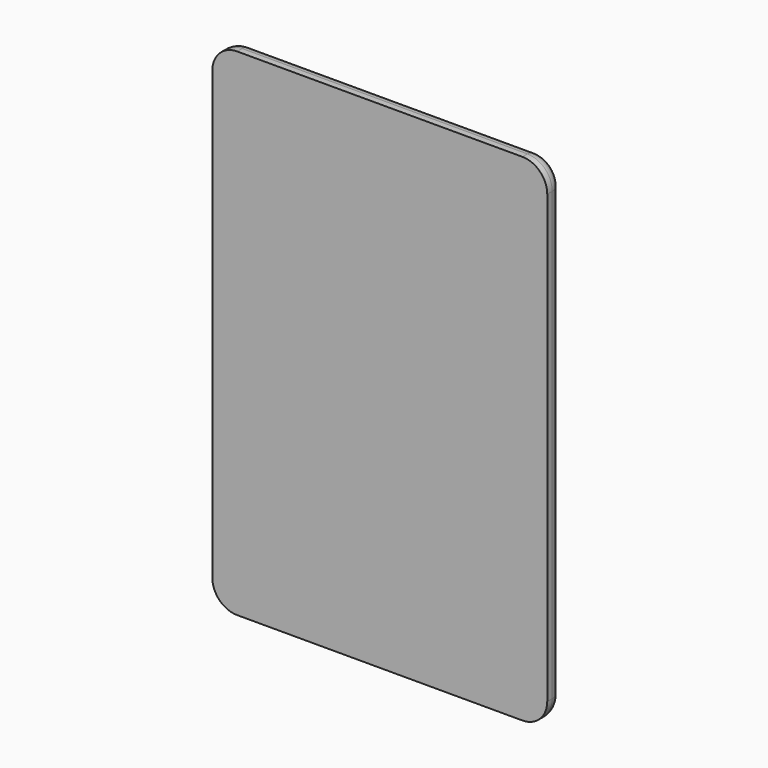
from build123d import *

# Parameters (mm, degrees)
F0_W     = 135
F0_H     = 200
F1_DEPTH = 7.5
F2_R     = 10
F3_R     = 5
F4_W     = 8
F4_H     = 2
F5_DEPTH = 5


with BuildPart() as f1:
    # F0 (on Front) → F1 (new body)
    with BuildSketch(Plane.XZ):
        with Locations((67.5, 100)):
            Rectangle(F0_W, F0_H)
    extrude(amount=F1_DEPTH)

    # F2
    f2_edges = [f1.edges().sort_by_distance(p)[0] for p in [
        (0, -3.75, 200),
        (135, -3.75, 200),
        (0, -3.75, 0),
        (135, -3.75, 0),
    ]]
    fillet(f2_edges, radius=F2_R)

    # F3
    f3_edges = [f1.edges().sort_by_distance(p)[0] for p in [
        (0, 0, 100),
        (67.5, 0, 200),
        (2.928932, 0, 197.071068),
    ]]
    fillet(f3_edges, radius=F3_R)

    # F4 (on face) → F5 (cut)
    with BuildSketch(Plane(origin=(0, 0, 0), x_dir=(1, 0, 0), z_dir=(0, 0, -1))):
        with Locations((67.5, 4)):
            Rectangle(F4_W, F4_H)
    extrude(amount=-F5_DEPTH, mode=Mode.SUBTRACT)


solid = f1.part
